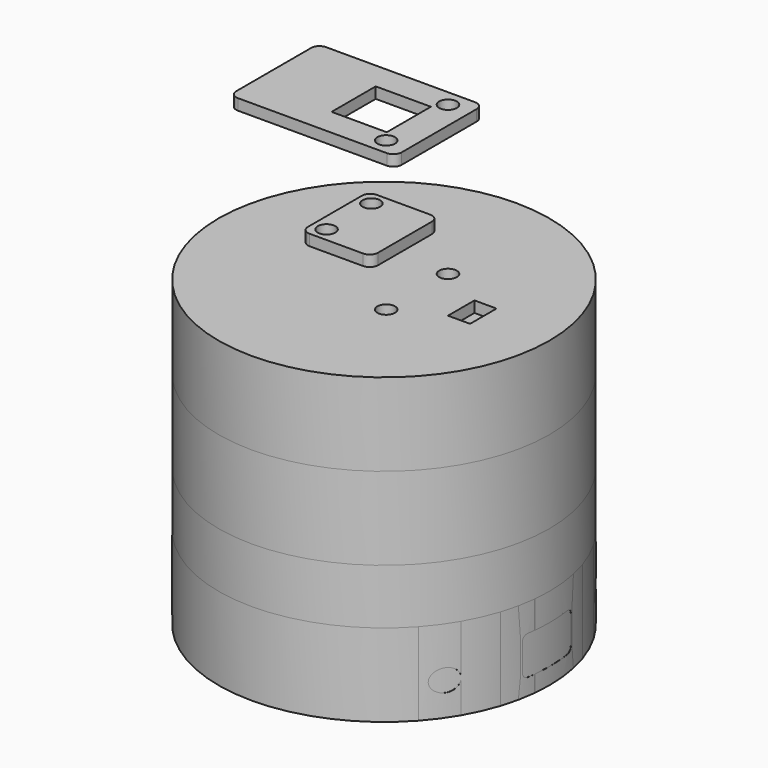
from build123d import *

# Parameters (mm, degrees)
CYLINDER001_R               = 1
CYLINDER001_DEPTH           = 9
CYLINDER_R                  = 1.75
CYLINDER_DEPTH              = 7.5
BOX_W                       = 48.26
BOX_H                       = 25.6
BOX_DEPTH                   = 2
FILLET_R                    = 2
CYLINDER015_R               = 2
CYLINDER015_DEPTH           = 60
CYLINDER016_R               = 2
CYLINDER016_DEPTH           = 60
CYLINDER006_R               = 28.5
CYLINDER006_DEPTH           = 2
FILLET001_R                 = 0.5
CYLINDER003_R               = 28
CYLINDER003_DEPTH           = 15
CYLINDER002_R               = 30
CYLINDER002_DEPTH           = 15
BOX004_W                    = 4
BOX004_H                    = 6
BOX004_DEPTH                = 10
CYLINDER010_R               = 1.6
CYLINDER010_DEPTH           = 10
CYLINDER011_R               = 1.6
CYLINDER011_DEPTH           = 10
BOX003_W                    = 30
BOX003_H                    = 20
BOX003_DEPTH                = 2
CYLINDER014_W               = 30
CYLINDER014_H               = 28
CYLINDER014_ANGLE           = 100
CYLINDER014_PLACEMENT_ANGLE = 110
CYLINDER013_W               = 30
CYLINDER013_H               = 28
CYLINDER013_ANGLE           = 100
CYLINDER013_PLACEMENT_ANGLE = 130
CYLINDER012_W               = 30
CYLINDER012_H               = 28
CYLINDER012_ANGLE           = 100
CYLINDER012_PLACEMENT_ANGLE = 10
CYLINDER009_R               = 26
CYLINDER009_DEPTH           = 17
CYLINDER007_R               = 28
CYLINDER007_DEPTH           = 17
CYLINDER008_R               = 28.3
CYLINDER008_DEPTH           = 2
FILLET002_R                 = 0.4
CYLINDER005_R               = 28
CYLINDER005_DEPTH           = 13
CYLINDER004_R               = 30
CYLINDER004_DEPTH           = 15
BOX005_W                    = 10
BOX005_H                    = 10
BOX005_DEPTH                = 10
FILLET003_R                 = 1.5
BOX007_W                    = 4
BOX007_H                    = 6
BOX007_DEPTH                = 10
CYLINDER018_R               = 1.6
CYLINDER018_DEPTH           = 10
CYLINDER017_R               = 1.6
CYLINDER017_DEPTH           = 10
BOX006_W                    = 17.78
BOX006_H                    = 15.24
BOX006_DEPTH                = 2
BOX008_W                    = 12.7
BOX008_H                    = 15.24
BOX008_DEPTH                = 2
FILLET004_R                 = 1.5
BOX010_W                    = 4
BOX010_H                    = 6
BOX010_DEPTH                = 10
BOX009_W                    = 4
BOX009_H                    = 6
BOX009_DEPTH                = 10
BOX011_W                    = 60
BOX011_H                    = 11
BOX011_DEPTH                = 7
FILLET005_R                 = 1


with BuildPart() as mountpiecelowerleft:
    # Cylinder001 → Cylinder001 (new body)
    with BuildSketch(Plane(origin=(2.54, 2.54, 0), x_dir=(1, 0, 0), z_dir=(0, 0, 1))):
        Circle(CYLINDER001_R)
    extrude(amount=CYLINDER001_DEPTH)


with BuildPart() as distancepiecelowerleft:
    # Cylinder → Cylinder (new body)
    with BuildSketch(Plane(origin=(2.54, 2.54, 0), x_dir=(1, 0, 0), z_dir=(0, 0, 1))):
        Circle(CYLINDER_R)
    extrude(amount=CYLINDER_DEPTH)


with BuildPart() as upperrightmount:
    # Fusion003 base: copy of DistancePieceLowerLeft
    add(distancepiecelowerleft.part)

    # Fusion003: union MountPieceLowerLeft
    add(mountpiecelowerleft.part)


with BuildPart() as upperrightmount_1:
    # Fusion003 placement: moved
    add(upperrightmount.part.moved(Location((43.434, 20.828, 0))))


with BuildPart() as fillet_body:
    # Box → Box (new body)
    with BuildSketch(Plane.XY):
        with Locations((24.13, 12.8)):
            Rectangle(BOX_W, BOX_H)
    extrude(amount=BOX_DEPTH)

    # Fillet
    fillet_edges = [fillet_body.edges().sort_by_distance(p)[0] for p in [
        (0, 0, 1),
        (0, 25.6, 1),
        (48.26, 0, 1),
        (48.26, 25.6, 1),
    ]]
    fillet(fillet_edges, radius=FILLET_R)


with BuildPart() as lowerrightmount:
    # Fusion001 base: copy of DistancePieceLowerLeft
    add(distancepiecelowerleft.part)

    # Fusion001: union MountPieceLowerLeft
    add(mountpiecelowerleft.part)


with BuildPart() as lowerrightmount_1:
    # Fusion001 placement: moved
    add(lowerrightmount.part.moved(Location((43.434, 0, 0))))


with BuildPart() as lowerleftmount:
    # Fusion base: copy of DistancePieceLowerLeft
    add(distancepiecelowerleft.part)

    # Fusion: union MountPieceLowerLeft
    add(mountpiecelowerleft.part)


with BuildPart() as esp8266_bracket:
    # Fusion002 base: copy of DistancePieceLowerLeft
    add(distancepiecelowerleft.part)

    # Fusion002: union MountPieceLowerLeft
    add(mountpiecelowerleft.part)


with BuildPart() as esp8266_bracket_1:
    # Fusion002 placement: moved
    add(esp8266_bracket.part.moved(Location((0, 20.828, 0))))

    # Fusion004: union UpperRightMount, Fillet body, LowerRightMount, LowerLeftMount
    add(upperrightmount_1.part)
    add(fillet_body.part)
    add(lowerrightmount_1.part)
    add(lowerleftmount.part)


with BuildPart() as esp8266_bracket_2:
    # Fusion004 placement: moved
    add(esp8266_bracket_1.part.moved(Location((-24.05, -12.7, 0))))


with BuildPart() as lefthole:
    # Cylinder015 → Cylinder015 (new body)
    with BuildSketch(Plane(origin=(-30, -17, 6), x_dir=(0, 0, -1), z_dir=(1, 0, 0))):
        Circle(CYLINDER015_R)
    extrude(amount=CYLINDER015_DEPTH)


with BuildPart() as righthole:
    # Cylinder016 → Cylinder016 (new body)
    with BuildSketch(Plane(origin=(-30, 18, 6), x_dir=(0, 0, -1), z_dir=(1, 0, 0))):
        Circle(CYLINDER016_R)
    extrude(amount=CYLINDER016_DEPTH)


with BuildPart() as lowerhousingnotchfillet:
    # Cylinder006 → Cylinder006 (new body)
    with BuildSketch(Plane.XY.offset(11)):
        Circle(CYLINDER006_R)
    extrude(amount=CYLINDER006_DEPTH)

    # Fillet001
    fillet001_edges = [lowerhousingnotchfillet.edges().sort_by_distance(p)[0] for p in [
        (-28.5, 0, 13),
        (-28.5, 0, 11),
    ]]
    fillet(fillet001_edges, radius=FILLET001_R)


with BuildPart() as lowerhousinginner:
    # Cylinder003 → Cylinder003 (new body)
    with BuildSketch(Plane.XY.offset(2)):
        Circle(CYLINDER003_R)
    extrude(amount=CYLINDER003_DEPTH)


with BuildPart() as obj1:
    # Cylinder002 → Cylinder002 (new body)
    with BuildSketch(Plane.XY):
        Circle(CYLINDER002_R)
    extrude(amount=CYLINDER002_DEPTH)

    # Cut: cut LowerHousingInner
    add(lowerhousinginner.part, mode=Mode.SUBTRACT)

    # Cut004: cut LowerHousingNotchFillet
    add(lowerhousingnotchfillet.part, mode=Mode.SUBTRACT)


with BuildPart() as obj2:
    # Cut010 base: copy of obj1
    add(obj1.part)

    # Cut010: cut RightHole
    add(righthole.part, mode=Mode.SUBTRACT)

    # Cut011: cut LeftHole
    add(lefthole.part, mode=Mode.SUBTRACT)

    # Fusion009: union ESP8266_bracket
    add(esp8266_bracket_2.part)


with BuildPart() as obj3:
    # Box004 → Box004 (new body)
    with BuildSketch(Plane(origin=(14, -3, -8), x_dir=(1, 0, 0), z_dir=(0, 0, 1))):
        with Locations((2, 3)):
            Rectangle(BOX004_W, BOX004_H)
    extrude(amount=BOX004_DEPTH)


with BuildPart() as obj4:
    # Cylinder010 → Cylinder010 (new body)
    with BuildSketch(Plane(origin=(6, -7, -8), x_dir=(1, 0, 0), z_dir=(0, 0, 1))):
        Circle(CYLINDER010_R)
    extrude(amount=CYLINDER010_DEPTH)


with BuildPart() as obj5:
    # Cylinder011 → Cylinder011 (new body)
    with BuildSketch(Plane(origin=(6, 7, -8), x_dir=(1, 0, 0), z_dir=(0, 0, 1))):
        Circle(CYLINDER011_R)
    extrude(amount=CYLINDER011_DEPTH)


with BuildPart() as obj6:
    # Box003 → Box003 (new body)
    with BuildSketch(Plane(origin=(-20, -10, 0), x_dir=(1, 0, 0), z_dir=(0, 0, 1))):
        with Locations((15, 10)):
            Rectangle(BOX003_W, BOX003_H)
    extrude(amount=BOX003_DEPTH)


with BuildPart() as obj7:
    # Fusion011 base: copy of obj6
    add(obj6.part)

    # Fusion011: union obj4, obj5
    add(obj4.part)
    add(obj5.part)

    # Fusion012: union obj3
    add(obj3.part)


with BuildPart() as obj7_1:
    # Fusion012 placement: moved
    add(obj7.part.moved(Location((0, 0, 30))))


with BuildPart() as obj8:
    # Cylinder014 → Cylinder014 (revolve)
    with BuildSketch(Plane.XZ):
        with Locations((15, 14)):
            Rectangle(CYLINDER014_W, CYLINDER014_H)
    revolve(axis=Axis((0, 0, 0), (0, 0, 1)), revolution_arc=CYLINDER014_ANGLE)


with BuildPart() as obj8_1:
    # Cylinder014 placement: moved
    add(obj8.part.rotate(Axis((0, 0, 0), (0, 0, -1)), CYLINDER014_PLACEMENT_ANGLE))


with BuildPart() as obj9:
    # Cylinder013 → Cylinder013 (revolve)
    with BuildSketch(Plane.XZ):
        with Locations((15, 14)):
            Rectangle(CYLINDER013_W, CYLINDER013_H)
    revolve(axis=Axis((0, 0, 0), (0, 0, 1)), revolution_arc=CYLINDER013_ANGLE)


with BuildPart() as obj9_1:
    # Cylinder013 placement: moved
    add(obj9.part.rotate(Axis((0, 0, 0), (0, 0, 1)), CYLINDER013_PLACEMENT_ANGLE))


with BuildPart() as obj10:
    # Cylinder012 → Cylinder012 (revolve)
    with BuildSketch(Plane.XZ):
        with Locations((15, 14)):
            Rectangle(CYLINDER012_W, CYLINDER012_H)
    revolve(axis=Axis((0, 0, 0), (0, 0, 1)), revolution_arc=CYLINDER012_ANGLE)


with BuildPart() as obj10_1:
    # Cylinder012 placement: moved
    add(obj10.part.rotate(Axis((0, 0, 0), (0, 0, 1)), CYLINDER012_PLACEMENT_ANGLE))


with BuildPart() as obj11:
    # Cylinder009 → Cylinder009 (new body)
    with BuildSketch(Plane.XY.offset(11)):
        Circle(CYLINDER009_R)
    extrude(amount=CYLINDER009_DEPTH)


with BuildPart() as obj12:
    # Cylinder007 → Cylinder007 (new body)
    with BuildSketch(Plane.XY.offset(11)):
        Circle(CYLINDER007_R)
    extrude(amount=CYLINDER007_DEPTH)


with BuildPart() as obj13:
    # Cylinder008 → Cylinder008 (new body)
    with BuildSketch(Plane.XY.offset(11)):
        Circle(CYLINDER008_R)
    extrude(amount=CYLINDER008_DEPTH)

    # Fillet002
    fillet002_edges = [obj13.edges().sort_by_distance(p)[0] for p in [
        (-28.3, 0, 13),
        (-28.3, 0, 11),
    ]]
    fillet(fillet002_edges, radius=FILLET002_R)

    # Fusion005: union obj12
    add(obj12.part)

    # Cut005: cut obj11
    add(obj11.part, mode=Mode.SUBTRACT)

    # Cut006: cut obj10
    add(obj10_1.part, mode=Mode.SUBTRACT)

    # Cut007: cut obj9
    add(obj9_1.part, mode=Mode.SUBTRACT)

    # Cut008: cut obj8
    add(obj8_1.part, mode=Mode.SUBTRACT)


with BuildPart() as upperhousinginner:
    # Cylinder005 → Cylinder005 (new body)
    with BuildSketch(Plane.XY.offset(15)):
        Circle(CYLINDER005_R)
    extrude(amount=CYLINDER005_DEPTH)


with BuildPart() as obj14:
    # Cylinder004 → Cylinder004 (new body)
    with BuildSketch(Plane.XY.offset(15)):
        Circle(CYLINDER004_R)
    extrude(amount=CYLINDER004_DEPTH)

    # Cut002: cut UpperHousingInner
    add(upperhousinginner.part, mode=Mode.SUBTRACT)

    # Fusion008: union obj13
    add(obj13.part)


with BuildPart() as obj15:
    # Cut012 base: copy of obj14
    add(obj14.part)

    # Cut012: cut obj7
    add(obj7_1.part, mode=Mode.SUBTRACT)


with BuildPart() as obj15_1:
    # Cut012 placement: moved
    add(obj15.part.moved(Location((0, 0, 25))))


with BuildPart() as obj16:
    # Box005 → Box005 (new body)
    with BuildSketch(Plane(origin=(-5.5, -5, 0), x_dir=(1, 0, 0), z_dir=(0, 0, 1))):
        with Locations((5, 5)):
            Rectangle(BOX005_W, BOX005_H)
    extrude(amount=BOX005_DEPTH)


with BuildPart() as obj17:
    # Cut013 base: copy of obj6
    add(obj6.part)

    # Cut013: cut obj4
    add(obj4.part, mode=Mode.SUBTRACT)

    # Cut014: cut obj5
    add(obj5.part, mode=Mode.SUBTRACT)

    # Fillet003
    fillet003_edges = [obj17.edges().sort_by_distance(p)[0] for p in [
        (-20, -10, 1),
        (-20, 10, 1),
        (10, -10, 1),
        (10, 10, 1),
    ]]
    fillet(fillet003_edges, radius=FILLET003_R)

    # Cut015: cut obj16
    add(obj16.part, mode=Mode.SUBTRACT)


with BuildPart() as obj17_1:
    # Cut015 placement: moved
    add(obj17.part.moved(Location((0, 0, 80))))


with BuildPart() as obj18:
    # Box007 → Box007 (new body)
    with BuildSketch(Plane(origin=(14, -3, -8), x_dir=(1, 0, 0), z_dir=(0, 0, 1))):
        with Locations((2, 3)):
            Rectangle(BOX007_W, BOX007_H)
    extrude(amount=BOX007_DEPTH)


with BuildPart() as obj19:
    # Cylinder018 → Cylinder018 (new body)
    with BuildSketch(Plane(origin=(-6.35, -5.08, -8), x_dir=(1, 0, 0), z_dir=(0, 0, 1))):
        Circle(CYLINDER018_R)
    extrude(amount=CYLINDER018_DEPTH)


with BuildPart() as obj20:
    # Cylinder017 → Cylinder017 (new body)
    with BuildSketch(Plane(origin=(-6.35, 5.08, -8), x_dir=(1, 0, 0), z_dir=(0, 0, 1))):
        Circle(CYLINDER017_R)
    extrude(amount=CYLINDER017_DEPTH)


with BuildPart() as obj21:
    # Box006 → Box006 (new body)
    with BuildSketch(Plane(origin=(-8.89, -7.62, 0), x_dir=(1, 0, 0), z_dir=(0, 0, 1))):
        with Locations((8.89, 7.62)):
            Rectangle(BOX006_W, BOX006_H)
    extrude(amount=BOX006_DEPTH)

    # Fusion013: union obj19, obj20
    add(obj19.part)
    add(obj20.part)


with BuildPart() as obj21_1:
    # Fusion013 placement: moved
    add(obj21.part.moved(Location((-2, 0, 0))))

    # Fusion014: union obj18
    add(obj18.part)


with BuildPart() as obj21_2:
    # Fusion014 placement: moved
    add(obj21_1.part.moved(Location((0, 0, 30))))


with BuildPart() as obj22:
    # Cut016 base: copy of obj14
    add(obj14.part)

    # Cut016: cut obj21
    add(obj21_2.part, mode=Mode.SUBTRACT)


with BuildPart() as obj23:
    # Box008 → Box008 (new body)
    with BuildSketch(Plane(origin=(-8.89, -7.62, 0), x_dir=(1, 0, 0), z_dir=(0, 0, 1))):
        with Locations((6.35, 7.62)):
            Rectangle(BOX008_W, BOX008_H)
    extrude(amount=BOX008_DEPTH)

    # Cut017: cut obj19
    add(obj19.part, mode=Mode.SUBTRACT)

    # Cut018: cut obj20
    add(obj20.part, mode=Mode.SUBTRACT)

    # Fillet004
    fillet004_edges = [obj23.edges().sort_by_distance(p)[0] for p in [
        (-8.89, -7.62, 1),
        (-8.89, 7.62, 1),
        (3.81, -7.62, 1),
        (3.81, 7.62, 1),
    ]]
    fillet(fillet004_edges, radius=FILLET004_R)


with BuildPart() as obj23_1:
    # Fillet004 placement: moved
    add(obj23.part.moved(Location((0, 0, 61))))


with BuildPart() as obj24:
    # Box010 → Box010 (new body)
    with BuildSketch(Plane(origin=(-14, -3, -8), x_dir=(1, 0, 0), z_dir=(0, 0, 1))):
        with Locations((2, 3)):
            Rectangle(BOX010_W, BOX010_H)
    extrude(amount=BOX010_DEPTH)


with BuildPart() as obj25:
    # Box009 → Box009 (new body)
    with BuildSketch(Plane(origin=(14, -3, -8), x_dir=(1, 0, 0), z_dir=(0, 0, 1))):
        with Locations((2, 3)):
            Rectangle(BOX009_W, BOX009_H)
    extrude(amount=BOX009_DEPTH)

    # Fusion015: union obj24
    add(obj24.part)


with BuildPart() as obj25_1:
    # Fusion015 placement: moved
    add(obj25.part.moved(Location((0, 0, 30))))


with BuildPart() as obj26:
    # Cut019 base: copy of obj14
    add(obj14.part)

    # Cut019: cut obj25
    add(obj25_1.part, mode=Mode.SUBTRACT)


with BuildPart() as obj26_1:
    # Cut019 placement: moved
    add(obj26.part.moved(Location((0, 0, 10))))


with BuildPart() as usbholecutout:
    # Box011 → Box011 (new body)
    with BuildSketch(Plane(origin=(-30, -5.5, 3), x_dir=(1, 0, 0), z_dir=(0, 0, 1))):
        with Locations((30, 5.5)):
            Rectangle(BOX011_W, BOX011_H)
    extrude(amount=BOX011_DEPTH)

    # Fillet005
    fillet005_edges = [usbholecutout.edges().sort_by_distance(p)[0] for p in [
        (0, -5.5, 3),
        (0, -5.5, 10),
        (0, 5.5, 3),
        (0, 5.5, 10),
    ]]
    fillet(fillet005_edges, radius=FILLET005_R)


with BuildPart() as obj27:
    # Cut020 base: copy of obj1
    add(obj1.part)

    # Cut020: cut USBHoleCutout
    add(usbholecutout.part, mode=Mode.SUBTRACT)


with BuildPart() as obj28:
    # Fusion016 base: copy of ESP8266_bracket
    add(esp8266_bracket_2.part)

    # Fusion016: union obj27
    add(obj27.part)


solid = Compound([obj2.part, obj15_1.part, obj17_1.part, obj22.part, obj23_1.part, obj26_1.part, obj28.part])
